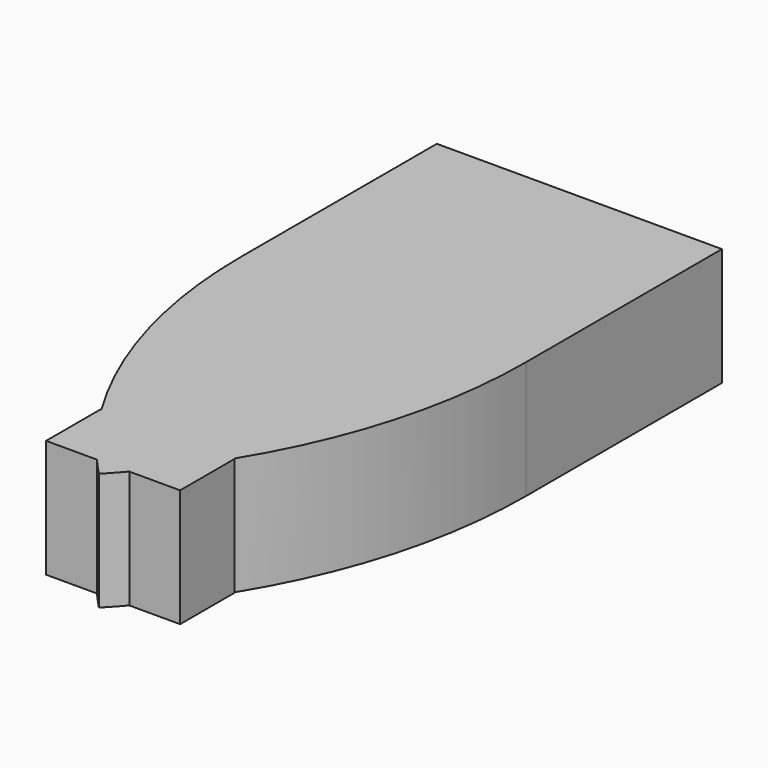
from build123d import *

# Parameters (mm, degrees)
F1_DEPTH = 25.4


with BuildPart() as f1:
    # F0 (on Top) → F1 (new body)
    with BuildSketch(Plane.XY):
        Polygon((0, 46.3683046401), (0, 52.7426078916), (-61.4303232808, 52.7426078916), (-61.4303232808, 46.3683046401), (-61.4303232808, 0), (-30.7151616404, 0), (0, 0), align=None)
        with BuildLine():
            ThreePointArc((-16.4492723734, -58.1659860909), (-4.1914067779, -30.223585573), (0, 0))
            Line((0, 0), (-30.7151616404, 0))
            Line((-30.7151616404, 0), (-30.7151616404, -58.1659860909))
            Line((-30.7151616404, -58.1659860909), (-16.4492723734, -58.1659860909))
        make_face()
        with BuildLine():
            Line((-30.7151616404, 0), (-61.4303232808, 0))
            ThreePointArc((-61.4303232808, 0), (-57.2389165029, -30.223585573), (-44.9810509074, -58.1659860909))
            Line((-44.9810509074, -58.1659860909), (-30.7151616404, -58.1659860909))
            Line((-30.7151616404, -58.1659860909), (-30.7151616404, 0))
        make_face()
        with BuildLine():
            Line((-16.2753928453, -58.1659860909), (-16.4492723734, -58.1659860909))
            ThreePointArc((-16.4492723734, -58.1659860909), (-21.5381344121, -65.729393159), (-27.2301251964, -72.8499889374))
            Line((-27.2301251964, -72.8499889374), (-16.2753928453, -72.8499889374))
            Line((-16.2753928453, -72.8499889374), (-16.2753928453, -58.1659860909))
        make_face()
        with BuildLine():
            ThreePointArc((-27.2301251964, -72.8499889374), (-21.5381344121, -65.729393159), (-16.4492723734, -58.1659860909))
            Line((-16.4492723734, -58.1659860909), (-30.7151616404, -58.1659860909))
            Line((-30.7151616404, -58.1659860909), (-30.7151616404, -72.8499889374))
            Line((-30.7151616404, -72.8499889374), (-27.2301251964, -72.8499889374))
        make_face()
        with BuildLine():
            Line((-30.7151616404, -58.1659860909), (-44.9810509074, -58.1659860909))
            ThreePointArc((-44.9810509074, -58.1659860909), (-39.8921888687, -65.729393159), (-34.2001980845, -72.8499889374))
            Line((-34.2001980845, -72.8499889374), (-30.7151616404, -72.8499889374))
            Line((-30.7151616404, -72.8499889374), (-30.7151616404, -58.1659860909))
        make_face()
        with BuildLine():
            ThreePointArc((-34.2001980845, -72.8499889374), (-39.8921888687, -65.729393159), (-44.9810509074, -58.1659860909))
            Line((-44.9810509074, -58.1659860909), (-45.1549304356, -58.1659860909))
            Line((-45.1549304356, -58.1659860909), (-45.1549304356, -72.8499889374))
            Line((-45.1549304356, -72.8499889374), (-34.2001980845, -72.8499889374))
        make_face()
        with BuildLine():
            ThreePointArc((-30.7151616404, -76.676640043), (-28.9503493828, -74.7836182817), (-27.2301251964, -72.8499889374))
            Line((-27.2301251964, -72.8499889374), (-30.7151616404, -72.8499889374))
            Line((-30.7151616404, -72.8499889374), (-30.7151616404, -76.676640043))
        make_face()
        with BuildLine():
            Line((-30.7151616404, -72.8499889374), (-34.2001980845, -72.8499889374))
            ThreePointArc((-34.2001980845, -72.8499889374), (-32.479973898, -74.7836182817), (-30.7151616404, -76.676640043))
            Line((-30.7151616404, -76.676640043), (-30.7151616404, -72.8499889374))
        make_face()
    extrude(amount=F1_DEPTH)


solid = f1.part
